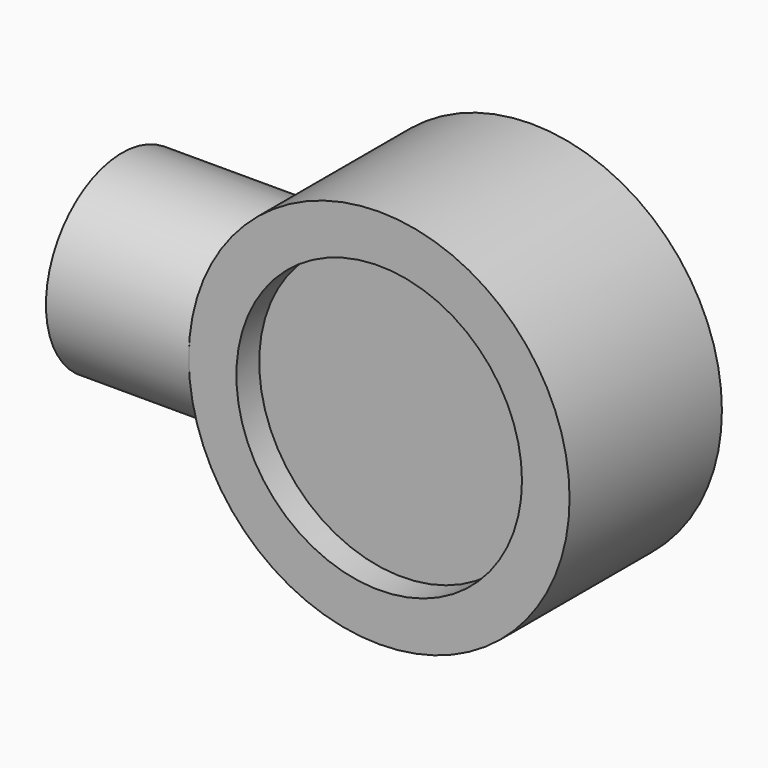
from build123d import *

# Parameters (mm, degrees)
F0_R     = 20
F1_DEPTH = 10
F3_R     = 10
F4_DEPTH = 18.6794920243
F5_R     = 15
F6_DEPTH = 3


with BuildPart() as f1:
    # F0 (on Front) → F1 (new body, symmetric)
    with BuildSketch(Plane.XZ):
        Circle(F0_R)
    extrude(amount=F1_DEPTH, both=True)

    # F3 (on offset) → F4 (join, up to face)
    with BuildSketch(Plane.YZ.offset(-35)):
        Circle(F3_R)
    extrude(amount=F4_DEPTH)

    # F5 (on face) → F6 (cut)
    with BuildSketch(Plane.XZ.offset(10)):
        Circle(F5_R)
    extrude(amount=-F6_DEPTH, mode=Mode.SUBTRACT)


solid = f1.part
